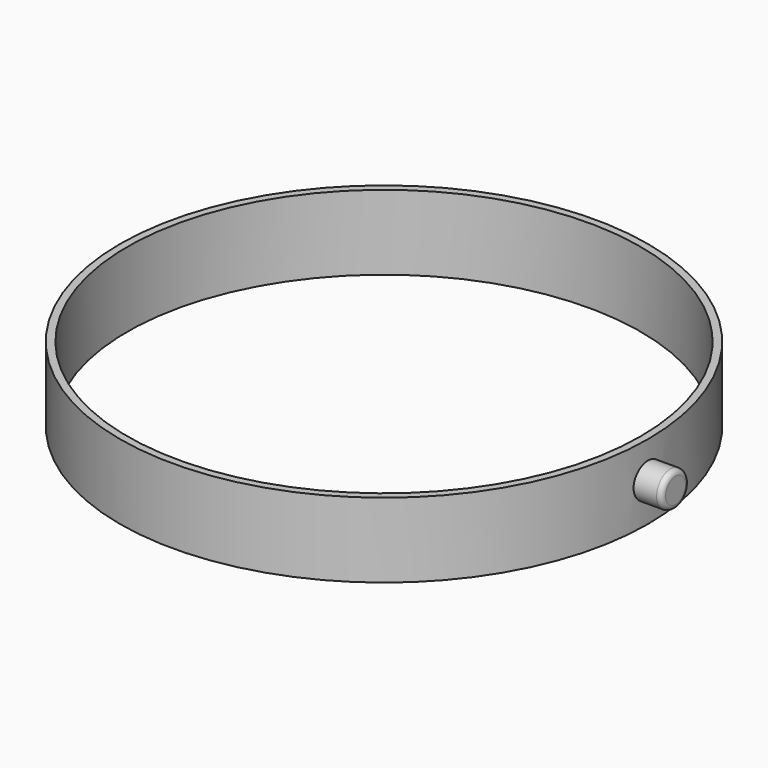
from build123d import *

# Parameters (mm, degrees)
F0_R     = 53
F0_R_2   = 51.5
F1_DEPTH = 15
F3_R     = 3.5
F4_DEPTH = 7
F5_R     = 1


with BuildPart() as f1:
    # F0 (on Top) → F1 (new body)
    with BuildSketch(Plane.XY):
        Circle(F0_R)
        Circle(F0_R_2, mode=Mode.SUBTRACT)
    extrude(amount=F1_DEPTH)

    # F3 (on offset) → F4 (join)
    with BuildSketch(Plane.YZ.offset(51.5)):
        with Locations((0, 7.729115)):
            Circle(F3_R)
    extrude(amount=F4_DEPTH)

    # F5
    f5_edges = [f1.edges().sort_by_distance(p)[0] for p in [
        (58.5, -3.5, 7.729115),
    ]]
    fillet(f5_edges, radius=F5_R)


solid = f1.part
